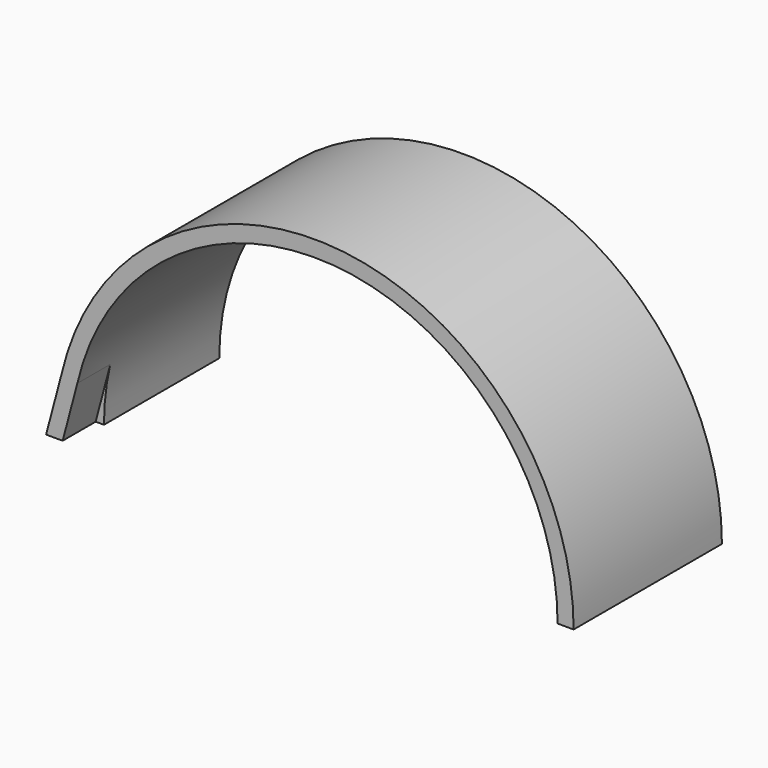
from build123d import *

# Parameters (mm, degrees)
F1_DEPTH = 8.509
F3_DEPTH = 3.784
F5_DEPTH = 3.784


with BuildPart() as f1:
    # F0 (on Front) → F1 (new body, symmetric)
    with BuildSketch(Plane.XZ):
        with BuildLine():
            ThreePointArc((-22.3393, 0), (0, 22.3393), (22.3393, 0))
            Line((22.3393, 0), (23.8125, 0))
            ThreePointArc((23.8125, 0), (0, 23.8125), (-23.8125, 0))
            Line((-23.8125, 0), (-22.3393, 0))
        make_face()
    extrude(amount=F1_DEPTH, both=True)

    # F2 (on face) → F3 (cut)
    with BuildSketch(Plane.XZ.offset(8.509)):
        with BuildLine():
            Line((-24.2808054107, 0), (-22.3393, 0))
            ThreePointArc((-22.3393, 0), (-22.1925007591, 2.5568016248), (-21.7540323731, 5.08))
            Line((-21.7540323731, 5.08), (-23.6446719547, 5.5215033775))
            ThreePointArc((-23.6446719547, 5.5215033775), (-24.1212477924, 2.7790135535), (-24.2808054107, 0))
        make_face()
    extrude(amount=-F3_DEPTH, mode=Mode.SUBTRACT)

    # F4 (on face) → F5 (join, through all)
    with BuildSketch(Plane.XZ.offset(8.509)):
        Polygon((-21.7540323731, 5.08), (-23.1886357568, 5.4150095097), (-24.6253, 0), (-23.101814744, 0), align=None)
    extrude(amount=-F5_DEPTH)


solid = f1.part
